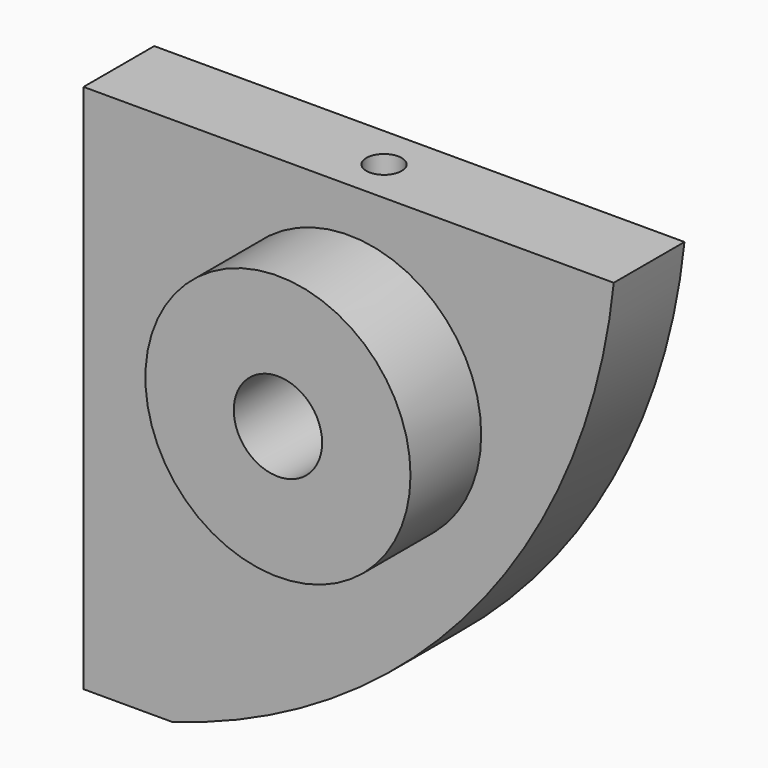
from build123d import *

# Parameters (mm, degrees)
F1_DEPTH = 6.35
F2_R     = 19.05
F3_DEPTH = 12.7
F4_R     = 6.35
F5_DEPTH = 74.422
F6_R     = 2.54
F7_DEPTH = 76.201


with BuildPart() as f1:
    # F0 (on Front) → F1 (new body, symmetric)
    with BuildSketch(Plane.XZ):
        with BuildLine():
            Line((2.516038, 58.73151), (-73.683962, 58.73151))
            Line((-73.683962, 58.73151), (-73.683962, -17.46849))
            Line((-73.683962, -17.46849), (-60.983962, -17.46849))
            ThreePointArc((-60.983962, -17.46849), (-17.618712, 10.952135), (2.516038, 58.73151))
        make_face()
    extrude(amount=F1_DEPTH, both=True)

    # F2 (on face) → F3 (join)
    with BuildSketch(Plane.XZ.offset(6.35)):
        with Locations((-35.583962, 33.33151)):
            Circle(F2_R)
    extrude(amount=F3_DEPTH)

    # F4 (on face) → F5 (cut)
    with BuildSketch(Plane.XZ.offset(19.05)):
        with Locations((-35.583962, 33.33151)):
            Circle(F4_R)
    extrude(amount=-F5_DEPTH, mode=Mode.SUBTRACT)

    # F6 (on face) → F7 (cut, through all)
    with BuildSketch(Plane.XY.offset(58.73151)):
        with Locations((-35.583962, 0)):
            Circle(F6_R)
    extrude(amount=-F7_DEPTH, mode=Mode.SUBTRACT)


solid = f1.part
